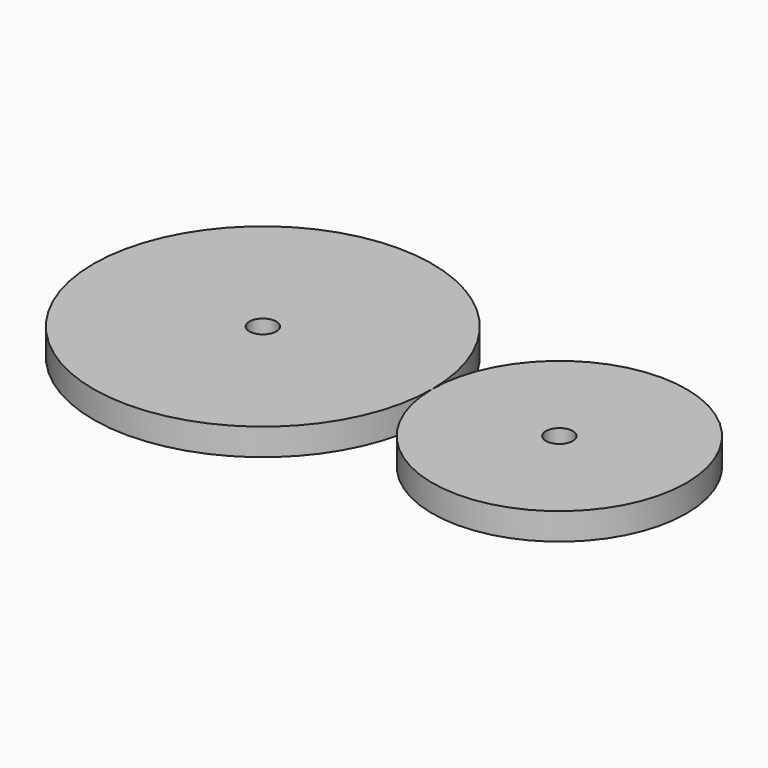
from build123d import *

# Parameters (mm, degrees)
F0_R     = 20
F1_DEPTH = 3.175
F2_D     = 3.175
F2_2_D   = 3.175


with BuildPart() as f1:
    # F0 (on Top) → F1 (new body)
    with BuildSketch(Plane.XY):
        with Locations((-43.1749344245, 10.6100216508)):
            Circle(F0_R)
    extrude(amount=F1_DEPTH)

    # F2 (through all)
    with Locations(Plane(origin=(0, 0, 0), x_dir=(1, 0, 0), z_dir=(0, 0, -1))):
        with Locations((-43.1749344245, -10.6100216508), (-8.1749344245, -10.6100216508)):
            Hole(F2_D / 2)


with BuildPart() as f1b:
    # F0 (on Top) → F1, piece 2 (new body)
    with BuildSketch(Plane.XY):
        with BuildLine():
            ThreePointArc((6.8250655755, 10.6100216508), (-8.1749344245, 25.6100216508), (-23.1749344245, 10.6100216508))
            ThreePointArc((-23.1749344245, 10.6100216508), (-8.1749344245, -4.3899783492), (6.8250655755, 10.6100216508))
        make_face()
    extrude(amount=F1_DEPTH)

    # F2#2 (through all)
    with Locations(Plane(origin=(0, 0, 0), x_dir=(1, 0, 0), z_dir=(0, 0, -1))):
        with Locations((-43.1749344245, -10.6100216508), (-8.1749344245, -10.6100216508)):
            Hole(F2_2_D / 2)


solid = Compound([f1.part, f1b.part])
